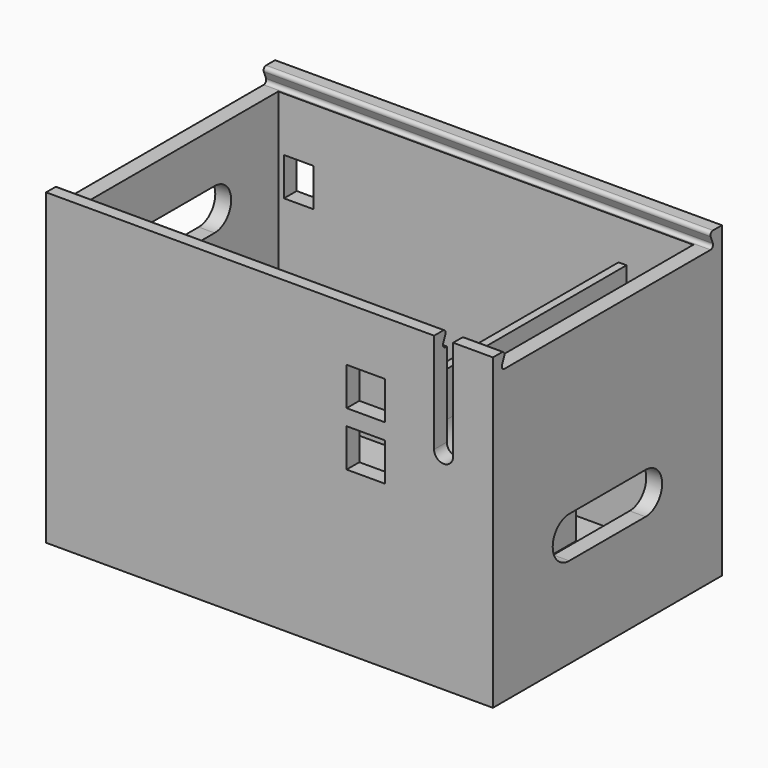
from build123d import *

# Parameters (mm, degrees)
F0_W      = 140.5
F0_H      = 90
F1_DEPTH  = 112
F2_T      = -5
F4_DEPTH  = 147.9
F6_DEPTH  = 83.1
F7_W      = 12
F7_H      = 12
F8_DEPTH  = 25
F9_W      = 130.5
F9_H      = 80
F10_DEPTH = 15
F11_W     = 90
F11_H     = 15
F12_DEPTH = 174.4
F14_DEPTH = 25
F15_W     = 13
F15_H     = 13
F16_DEPTH = 10
F18_DEPTH = 10
F20_DEPTH = 61.2


with BuildPart() as f1:
    # F0 (on Top) → F1 (new body)
    with BuildSketch(Plane.XY):
        Rectangle(F0_W, F0_H)
    extrude(amount=F1_DEPTH)

    # F2
    f2_openings = [f1.faces().sort_by_distance(p)[0] for p in [
        (0, 0, 112),
    ]]
    offset(amount=F2_T, openings=f2_openings)

    # F3 (on face) → F4 (cut)
    with BuildSketch(Plane(origin=(-70.25, 0, 0), x_dir=(0, -1, 0), z_dir=(-1, 0, 0))):
        with BuildLine():
            Line((-40.522967, 107), (-40, 107))
            Line((-40, 107), (40, 107))
            Line((40, 107), (40.522967, 107))
            ThreePointArc((40.522967, 107), (41.351034, 107.439371), (41.451444, 108.371391))
            Line((41.451444, 108.371391), (40.548556, 110.628609))
            ThreePointArc((40.548556, 110.628609), (40.648966, 111.560629), (41.477033, 112))
            Line((41.477033, 112), (-41.477033, 112))
            ThreePointArc((-41.477033, 112), (-40.648966, 111.560629), (-40.548556, 110.628609))
            Line((-40.548556, 110.628609), (-41.451444, 108.371391))
            ThreePointArc((-41.451444, 108.371391), (-41.351034, 107.439371), (-40.522967, 107))
        make_face()
    extrude(amount=-F4_DEPTH, mode=Mode.SUBTRACT)

    # F5 (on face) → F6 (join)
    with BuildSketch(Plane.XZ.offset(-40)):
        with BuildLine():
            ThreePointArc((65.25, 80.5), (54.75, 70), (44.25, 80.5))
            Line((44.25, 80.5), (44.25, 94.5))
            Line((44.25, 94.5), (41.75, 94.5))
            Line((41.75, 94.5), (41.75, 80.5))
            ThreePointArc((41.75, 80.5), (50.718871, 68.140793), (65.25, 72.835145))
            Line((65.25, 72.835145), (65.25, 80.5))
        make_face()
    extrude(amount=F6_DEPTH)

    # F7 (on face) → F8 (cut)
    with BuildSketch(Plane(origin=(0, -40, 0), x_dir=(-1, 0, 0), z_dir=(0, 1, 0))):
        with BuildLine():
            Line((-57.75, 112.14032), (-57.75, 80.5))
            ThreePointArc((-57.75, 80.5), (-54.75, 77.5), (-51.75, 80.5))
            Line((-51.75, 80.5), (-51.75, 112.14032))
            Line((-51.75, 112.14032), (-57.75, 112.14032))
        make_face()
        with Locations((-30.25, 89)):
            Rectangle(F7_W, F7_H)
        with Locations((-30.25, 72)):
            Rectangle(F7_W, F7_H)
    extrude(amount=-F8_DEPTH, mode=Mode.SUBTRACT)

    # F9 (on face) → F10 (join)
    with BuildSketch(Plane.XY.offset(5)):
        Rectangle(F9_W, F9_H)
    extrude(amount=F10_DEPTH)

    # F11 (on face) → F12 (cut)
    with BuildSketch(Plane(origin=(-70.25, 0, 0), x_dir=(0, -1, 0), z_dir=(-1, 0, 0))):
        with Locations((0, 7.5)):
            Rectangle(F11_W, F11_H)
        with BuildLine():
            ThreePointArc((15, 43.5), (21.5, 50), (15, 56.5))
            Line((15, 56.5), (-15, 56.5))
            ThreePointArc((-15, 56.5), (-21.5, 50), (-15, 43.5))
            Line((-15, 43.5), (15, 43.5))
        make_face()
    extrude(amount=-F12_DEPTH, mode=Mode.SUBTRACT)

    # F13 (on face) → F14 (cut)
    with BuildSketch(Plane(origin=(-70.25, 0, 0), x_dir=(0, -1, 0), z_dir=(-1, 0, 0))):
        with BuildLine():
            Line((-15, 78), (15, 78))
            ThreePointArc((15, 78), (21.5, 84.5), (15, 91))
            Line((15, 91), (-15, 91))
            ThreePointArc((-15, 91), (-21.5, 84.5), (-15, 78))
        make_face()
    extrude(amount=-F14_DEPTH, mode=Mode.SUBTRACT)

    # F15 (on face) → F16 (join)
    with BuildSketch(Plane.XY.offset(20)):
        with Locations((-53.75, 23)):
            Rectangle(F15_W, F15_H)
        with Locations((30.25, 23)):
            Rectangle(F15_W, F15_H)
        with Locations((30.25, -23)):
            Rectangle(F15_W, F15_H)
        with Locations((-53.75, -23)):
            Rectangle(F15_W, F15_H)
    extrude(amount=F16_DEPTH)

    # F17 (on face) → F18 (join)
    with BuildSketch(Plane.XY.offset(30)):
        Polygon((-47.25, 29.5), (-60.25, 29.5), (-60.25, 16.5), (-57.25, 16.5), (-57.25, 26.5), (-47.25, 26.5), align=None)
        Polygon((-60.25, -29.5), (-47.25, -29.5), (-47.25, -26.5), (-57.25, -26.5), (-57.25, -16.5), (-60.25, -16.5), align=None)
        Polygon((33.75, 26.5), (33.75, 16.5), (36.75, 16.5), (36.75, 29.5), (23.75, 29.5), (23.75, 26.5), align=None)
        Polygon((23.75, -26.5), (23.75, -29.5), (36.75, -29.5), (36.75, -16.5), (33.75, -16.5), (33.75, -26.5), align=None)
    extrude(amount=F18_DEPTH)

    # F19 (on Front) → F20 (cut)
    with BuildSketch(Plane.XZ):
        Polygon((-63.45, 90), (-63.45, 78), (-58.946795, 78), (-54.15, 78), (-54.15, 90), align=None)
    extrude(amount=-F20_DEPTH, mode=Mode.SUBTRACT)


solid = f1.part
